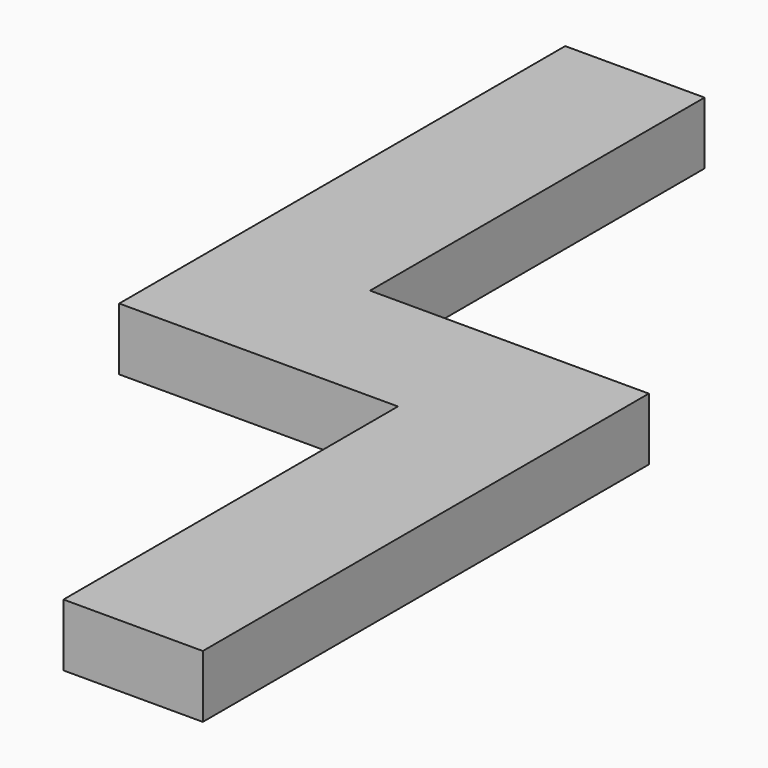
from build123d import *

# Parameters (mm, degrees)
F0_W     = 25
F0_H     = 75
F1_DEPTH = 11.2


with BuildPart() as f1:
    # F0 (on Top) → F1 (new body)
    with BuildSketch(Plane.XY):
        with Locations((-23.77824, 65.902652)):
            Rectangle(F0_W, F0_H)
        Polygon((-11.27824, 28.402652), (-36.27824, 28.402652), (-36.27824, 3.402652), (13.72176, 3.402652), (38.72176, 3.402652), (38.72176, 28.402652), align=None)
        with Locations((26.22176, -34.097348)):
            Rectangle(F0_W, F0_H)
    extrude(amount=F1_DEPTH)


solid = f1.part
